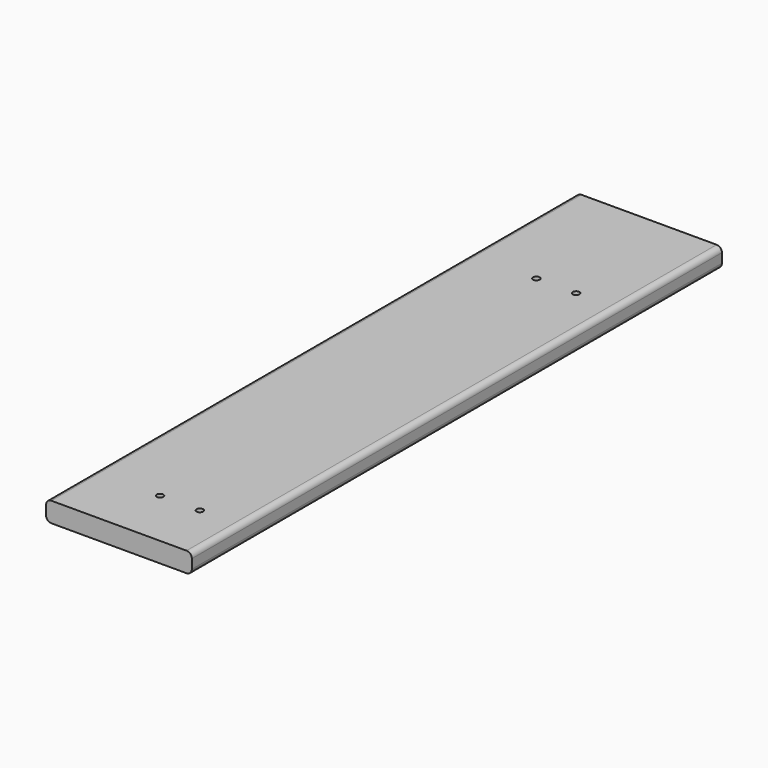
from build123d import *

# Parameters (mm, degrees)
F0_W     = 139.7
F0_H     = 19.05
F1_DEPTH = 317.5
F2_R     = 5.08
F4_D     = 6.35
F4_DEPTH = 25.4


with BuildPart() as f1:
    # F0 (on Front) → F1 (new body, symmetric)
    with BuildSketch(Plane.XZ):
        Rectangle(F0_W, F0_H)
    extrude(amount=F1_DEPTH, both=True)

    # F2
    f2_edges = [f1.edges().sort_by_distance(p)[0] for p in [
        (-69.85, 0, 9.525),
        (69.85, 0, 9.525),
        (69.85, 0, -9.525),
        (-69.85, 0, -9.525),
    ]]
    fillet(f2_edges, radius=F2_R)

    # F4
    with Locations(Plane(origin=(0, 0, -9.525), x_dir=(1, 0, 0), z_dir=(0, 0, -1))):
        with Locations((-6.35, 260.35), (31.75, 260.35), (31.75, -190.5), (-6.35, -190.5)):
            Hole(F4_D / 2, depth=F4_DEPTH)


solid = f1.part
